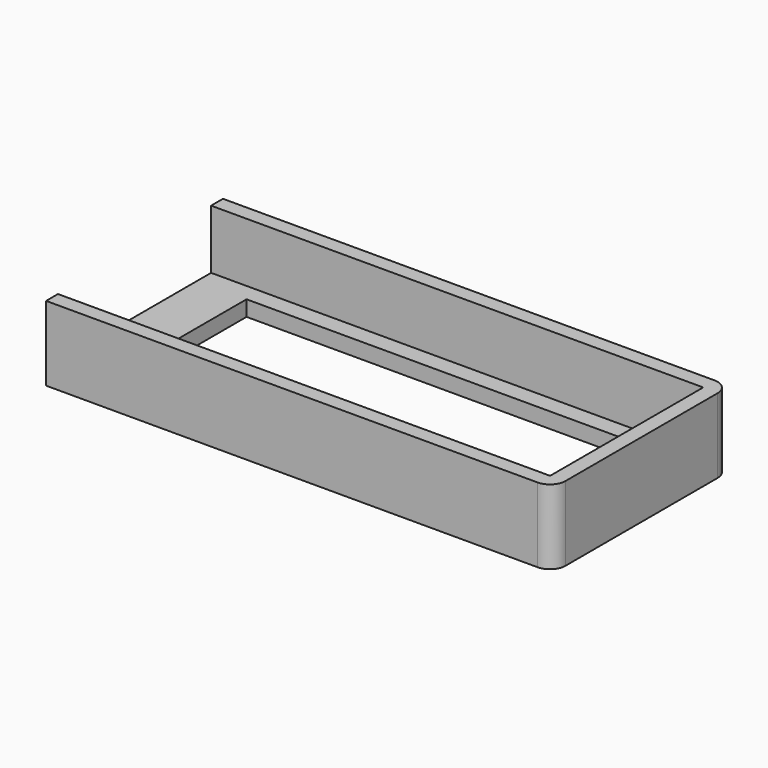
from build123d import *

# Parameters (mm, degrees)
PAD038_DEPTH           = 9.55
THICKNESS004_T         = -2.4
SKETCH044_W            = 30.9
SKETCH044_H            = 9.55
POCKET008_DEPTH        = 2.4
SKETCH040_W            = 68.5
SKETCH040_H            = 17.5
PAD036_DEPTH           = 2.5
FUSION_PLACEMENT_ANGLE = 180


with BuildPart() as body012:
    # Sketch043 → Pad038 (new body)
    with BuildSketch(Plane.XY):
        with BuildLine():
            Line((126.75, 6.7), (126.75, -29))
            Line((126.75, -29), (206.1, -29))
            ThreePointArc((206.1, -29), (207.867767, -28.267767), (208.6, -26.5))
            Line((208.6, -26.5), (208.6, 4.2))
            ThreePointArc((208.6, 4.2), (207.867767, 5.967767), (206.1, 6.7))
            Line((206.1, 6.7), (126.75, 6.7))
        make_face()
    extrude(amount=-PAD038_DEPTH)

    # Thickness004
    thickness004_openings = [body012.faces().sort_by_distance(p)[0] for p in [
        (167.637908, -11.15, -9.55),
        (167.637908, -11.15, 0),
    ]]
    offset(amount=THICKNESS004_T, openings=thickness004_openings, kind=Kind.INTERSECTION)

    # Sketch044 (on Face8 of Thickness004) → Pocket008 (cut)
    with BuildSketch(Plane.YZ.offset(129.15)):
        with Locations((-11.15, -4.775)):
            Rectangle(SKETCH044_W, SKETCH044_H)
    extrude(amount=-POCKET008_DEPTH, mode=Mode.SUBTRACT)


with BuildPart() as body012_1:
    # Body012 placement: moved
    add(body012.part.moved(Location((0, 0, 10))))


with BuildPart() as tail_cover:
    # Sketch040 → Pad036 (new body)
    with BuildSketch(Plane.XY):
        with BuildLine():
            Line((126.75, 6.7), (126.75, -29))
            Line((126.75, -29), (206.1, -29))
            ThreePointArc((206.1, -29), (207.867767, -28.267767), (208.6, -26.5))
            Line((208.6, -26.5), (208.6, 4.2))
            ThreePointArc((208.6, 4.2), (207.867767, 5.967767), (206.1, 6.7))
            Line((206.1, 6.7), (126.75, 6.7))
        make_face()
        with Locations((169, -15)):
            Rectangle(SKETCH040_W, SKETCH040_H, mode=Mode.SUBTRACT)
    extrude(amount=PAD036_DEPTH)


with BuildPart() as tail_cover_1:
    # Body010 placement: moved
    add(tail_cover.part.moved(Location((0, 0, 10))))

    # Fusion: union Body012
    add(body012_1.part)


with BuildPart() as tail_cover_2:
    # Fusion placement: moved
    add(tail_cover_1.part.moved(Location((-81, -105, 10))).rotate(Axis((-81, -105, 10), (1, 0, 0)), FUSION_PLACEMENT_ANGLE))


solid = tail_cover_2.part
